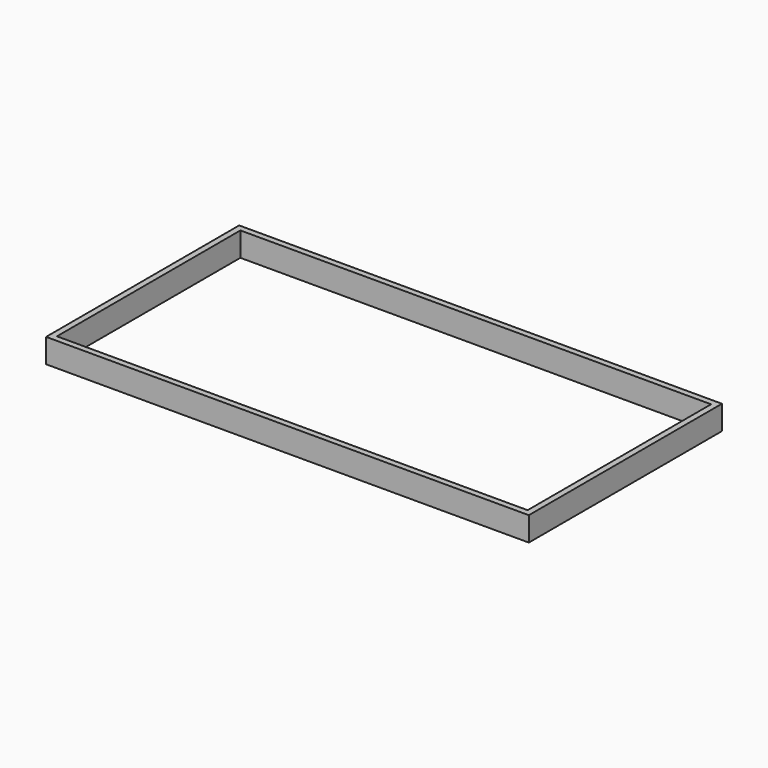
from build123d import *

# Parameters (mm, degrees)
F0_W     = 19.05
F0_H     = 723.9
F1_DEPTH = 76.2


with BuildPart() as f1:
    # F0 (on Top) → F1 (new body)
    with BuildSketch(Plane.XY):
        Polygon((762, 381), (-762, 381), (-762, 361.95), (-742.95, 361.95), (742.95, 361.95), (762, 361.95), align=None)
        with Locations((-752.475, 0)):
            Rectangle(F0_W, F0_H)
        Polygon((-742.95, -361.95), (-762, -361.95), (-762, -381), (762, -381), (762, -361.95), (742.95, -361.95), align=None)
        with Locations((752.475, 0)):
            Rectangle(F0_W, F0_H)
    extrude(amount=F1_DEPTH)


solid = f1.part
